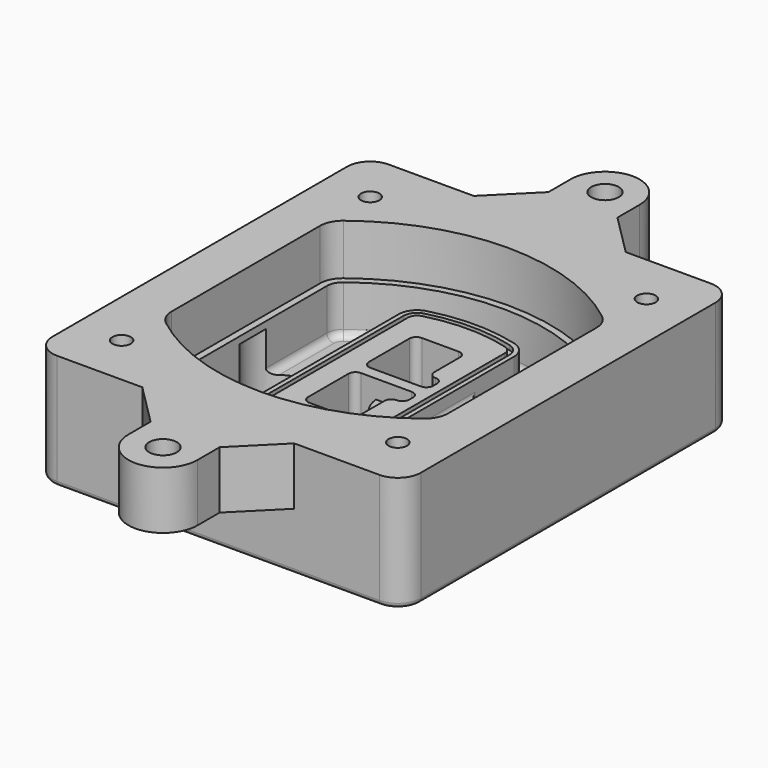
from build123d import *

# Parameters (mm, degrees)
F0_R      = 4
F1_DEPTH  = 25
F2_DEPTH  = 3
F3_DEPTH  = 18
F5_DEPTH  = 21
F6_DEPTH  = 2
F8_DEPTH  = 20
F9_DEPTH  = 16
F10_DEPTH = 25
F7_R      = 6
F7_R_2    = 4
F11_DEPTH = 6
F13_DEPTH = 9
F14_R     = 3
F15_R     = 2
F16_R     = 4
F16_R_2   = 6
F17_DEPTH = 25


with BuildPart() as f1:
    # F0 (on Top) → F1 (new body)
    with BuildSketch(Plane.XY):
        with BuildLine():
            ThreePointArc((-80, -80), (-77.0710678119, -87.0710678119), (-70, -90))
            Line((-70, -90), (70, -90))
            ThreePointArc((70, -90), (77.0710678119, -87.0710678119), (80, -80))
            Line((80, -80), (80, 80))
            ThreePointArc((80, 80), (77.0710678119, 87.0710678119), (70, 90))
            Line((70, 90), (-70, 90))
            ThreePointArc((-70, 90), (-77.0710678119, 87.0710678119), (-80, 80))
            Line((-80, 80), (-80, -80))
        make_face()
        with Locations((-60, -67.5)):
            Circle(F0_R, mode=Mode.SUBTRACT)
        with Locations((60, -67.5)):
            Circle(F0_R, mode=Mode.SUBTRACT)
        with Locations((-60, 67.5)):
            Circle(F0_R, mode=Mode.SUBTRACT)
        with BuildLine():
            ThreePointArc((-64, 40.2934422872), (-62.5820384798, 46.4328484224), (-58.6153846154, 51.3286200352))
            ThreePointArc((-58.6153846154, 51.3286200352), (0, 71.5), (58.6153846154, 51.3286200352))
            ThreePointArc((58.6153846154, 51.3286200352), (62.5820384798, 46.4328484224), (64, 40.2934422872))
            Line((64, 40.2934422872), (64, -40.2934422872))
            ThreePointArc((64, -40.2934422872), (62.5820384798, -46.4328484224), (58.6153846154, -51.3286200352))
            ThreePointArc((58.6153846154, -51.3286200352), (0, -71.5), (-58.6153846154, -51.3286200352))
            ThreePointArc((-58.6153846154, -51.3286200352), (-62.5820384798, -46.4328484224), (-64, -40.2934422872))
            Line((-64, -40.2934422872), (-64, 40.2934422872))
        make_face(mode=Mode.SUBTRACT)
        with Locations((60, 67.5)):
            Circle(F0_R, mode=Mode.SUBTRACT)
        with BuildLine():
            ThreePointArc((58.6153846154, 51.3286200352), (0, 71.5), (-58.6153846154, 51.3286200352))
            ThreePointArc((-58.6153846154, 51.3286200352), (-62.5820384798, 46.4328484224), (-64, 40.2934422872))
            Line((-64, 40.2934422872), (-64, -40.2934422872))
            ThreePointArc((-64, -40.2934422872), (-62.5820384798, -46.4328484224), (-58.6153846154, -51.3286200352))
            ThreePointArc((-58.6153846154, -51.3286200352), (0, -71.5), (58.6153846154, -51.3286200352))
            ThreePointArc((58.6153846154, -51.3286200352), (62.5820384798, -46.4328484224), (64, -40.2934422872))
            Line((64, -40.2934422872), (64, 40.2934422872))
            ThreePointArc((64, 40.2934422872), (62.5820384798, 46.4328484224), (58.6153846154, 51.3286200352))
        make_face()
        with BuildLine():
            Line((-60, -40.2934422872), (-60, 40.2934422872))
            ThreePointArc((-60, 40.2934422872), (-58.9871703427, 44.6787323838), (-56.1538461538, 48.1757121072))
            ThreePointArc((-56.1538461538, 48.1757121072), (0, 67.5), (56.1538461538, 48.1757121072))
            ThreePointArc((56.1538461538, 48.1757121072), (58.9871703427, 44.6787323838), (60, 40.2934422872))
            Line((60, 40.2934422872), (60, -40.2934422872))
            ThreePointArc((60, -40.2934422872), (58.9871703427, -44.6787323838), (56.1538461538, -48.1757121072))
            ThreePointArc((56.1538461538, -48.1757121072), (0, -67.5), (-56.1538461538, -48.1757121072))
            ThreePointArc((-56.1538461538, -48.1757121072), (-58.9871703427, -44.6787323838), (-60, -40.2934422872))
        make_face(mode=Mode.SUBTRACT)
        with BuildLine():
            ThreePointArc((-56.1538461538, 48.1757121072), (-58.9871703427, 44.6787323838), (-60, 40.2934422872))
            Line((-60, 40.2934422872), (-60, -40.2934422872))
            ThreePointArc((-60, -40.2934422872), (-58.9871703427, -44.6787323838), (-56.1538461538, -48.1757121072))
            ThreePointArc((-56.1538461538, -48.1757121072), (0, -67.5), (56.1538461538, -48.1757121072))
            ThreePointArc((56.1538461538, -48.1757121072), (58.9871703427, -44.6787323838), (60, -40.2934422872))
            Line((60, -40.2934422872), (60, 40.2934422872))
            ThreePointArc((60, 40.2934422872), (58.9871703427, 44.6787323838), (56.1538461538, 48.1757121072))
            ThreePointArc((56.1538461538, 48.1757121072), (0, 67.5), (-56.1538461538, 48.1757121072))
        make_face()
        with BuildLine():
            ThreePointArc((54.3076923077, 45.8110311612), (56.2910192399, 43.3631453548), (57, 40.2934422872))
            Line((57, 40.2934422872), (57, -40.2934422872))
            ThreePointArc((57, -40.2934422872), (56.2910192399, -43.3631453548), (54.3076923077, -45.8110311612))
            ThreePointArc((54.3076923077, -45.8110311612), (0, -64.5), (-54.3076923077, -45.8110311612))
            ThreePointArc((-54.3076923077, -45.8110311612), (-56.2910192399, -43.3631453548), (-57, -40.2934422872))
            Line((-57, -40.2934422872), (-57, 40.2934422872))
            ThreePointArc((-57, 40.2934422872), (-56.2910192399, 43.3631453548), (-54.3076923077, 45.8110311612))
            ThreePointArc((-54.3076923077, 45.8110311612), (0, 64.5), (54.3076923077, 45.8110311612))
        make_face(mode=Mode.SUBTRACT)
        with BuildLine():
            Line((57, -40.2934422872), (57, 40.2934422872))
            ThreePointArc((57, 40.2934422872), (56.2910192399, 43.3631453548), (54.3076923077, 45.8110311612))
            ThreePointArc((54.3076923077, 45.8110311612), (0, 64.5), (-54.3076923077, 45.8110311612))
            ThreePointArc((-54.3076923077, 45.8110311612), (-56.2910192399, 43.3631453548), (-57, 40.2934422872))
            Line((-57, 40.2934422872), (-57, -40.2934422872))
            ThreePointArc((-57, -40.2934422872), (-56.2910192399, -43.3631453548), (-54.3076923077, -45.8110311612))
            ThreePointArc((-54.3076923077, -45.8110311612), (0, -64.5), (54.3076923077, -45.8110311612))
            ThreePointArc((54.3076923077, -45.8110311612), (56.2910192399, -43.3631453548), (57, -40.2934422872))
        make_face()
    extrude(amount=-F1_DEPTH)

    # F0 (on Top) → F2 (join)
    with BuildSketch(Plane.XY):
        with BuildLine():
            ThreePointArc((-56.1538461538, 48.1757121072), (-58.9871703427, 44.6787323838), (-60, 40.2934422872))
            Line((-60, 40.2934422872), (-60, -40.2934422872))
            ThreePointArc((-60, -40.2934422872), (-58.9871703427, -44.6787323838), (-56.1538461538, -48.1757121072))
            ThreePointArc((-56.1538461538, -48.1757121072), (0, -67.5), (56.1538461538, -48.1757121072))
            ThreePointArc((56.1538461538, -48.1757121072), (58.9871703427, -44.6787323838), (60, -40.2934422872))
            Line((60, -40.2934422872), (60, 40.2934422872))
            ThreePointArc((60, 40.2934422872), (58.9871703427, 44.6787323838), (56.1538461538, 48.1757121072))
            ThreePointArc((56.1538461538, 48.1757121072), (0, 67.5), (-56.1538461538, 48.1757121072))
        make_face()
        with BuildLine():
            ThreePointArc((54.3076923077, 45.8110311612), (56.2910192399, 43.3631453548), (57, 40.2934422872))
            Line((57, 40.2934422872), (57, -40.2934422872))
            ThreePointArc((57, -40.2934422872), (56.2910192399, -43.3631453548), (54.3076923077, -45.8110311612))
            ThreePointArc((54.3076923077, -45.8110311612), (0, -64.5), (-54.3076923077, -45.8110311612))
            ThreePointArc((-54.3076923077, -45.8110311612), (-56.2910192399, -43.3631453548), (-57, -40.2934422872))
            Line((-57, -40.2934422872), (-57, 40.2934422872))
            ThreePointArc((-57, 40.2934422872), (-56.2910192399, 43.3631453548), (-54.3076923077, 45.8110311612))
            ThreePointArc((-54.3076923077, 45.8110311612), (0, 64.5), (54.3076923077, 45.8110311612))
        make_face(mode=Mode.SUBTRACT)
    extrude(amount=F2_DEPTH)

    # F0 (on Top) → F3 (cut)
    with BuildSketch(Plane.XY):
        with BuildLine():
            Line((57, -40.2934422872), (57, 40.2934422872))
            ThreePointArc((57, 40.2934422872), (56.2910192399, 43.3631453548), (54.3076923077, 45.8110311612))
            ThreePointArc((54.3076923077, 45.8110311612), (0, 64.5), (-54.3076923077, 45.8110311612))
            ThreePointArc((-54.3076923077, 45.8110311612), (-56.2910192399, 43.3631453548), (-57, 40.2934422872))
            Line((-57, 40.2934422872), (-57, -40.2934422872))
            ThreePointArc((-57, -40.2934422872), (-56.2910192399, -43.3631453548), (-54.3076923077, -45.8110311612))
            ThreePointArc((-54.3076923077, -45.8110311612), (0, -64.5), (54.3076923077, -45.8110311612))
            ThreePointArc((54.3076923077, -45.8110311612), (56.2910192399, -43.3631453548), (57, -40.2934422872))
        make_face()
    extrude(amount=-F3_DEPTH, mode=Mode.SUBTRACT)

    # F4 (on face) → F5 (join, through all)
    with BuildSketch(Plane.XY.offset(3)):
        with BuildLine():
            ThreePointArc((-25, -39.2465276821), (-23.3511545998, -44.1109737193), (-19.0842911877, -46.9702398883))
            ThreePointArc((-19.0842911877, -46.9702398883), (0, -49.5), (19.0842911877, -46.9702398883))
            ThreePointArc((19.0842911877, -46.9702398883), (23.3511545998, -44.1109737193), (25, -39.2465276821))
            Line((25, -39.2465276821), (25, 39.2465276821))
            ThreePointArc((25, 39.2465276821), (23.3511545998, 44.1109737193), (19.0842911877, 46.9702398883))
            ThreePointArc((19.0842911877, 46.9702398883), (0, 49.5), (-19.0842911877, 46.9702398883))
            ThreePointArc((-19.0842911877, 46.9702398883), (-23.3511545998, 44.1109737193), (-25, 39.2465276821))
            Line((-25, 39.2465276821), (-25, -39.2465276821))
        make_face()
        with BuildLine():
            ThreePointArc((18.5632183908, 45.0393118368), (21.7633659499, 42.89486221), (23, 39.2465276821))
            Line((23, 39.2465276821), (23, -39.2465276821))
            ThreePointArc((23, -39.2465276821), (21.7633659499, -42.89486221), (18.5632183908, -45.0393118368))
            ThreePointArc((18.5632183908, -45.0393118368), (0, -47.5), (-18.5632183908, -45.0393118368))
            ThreePointArc((-18.5632183908, -45.0393118368), (-21.7633659499, -42.89486221), (-23, -39.2465276821))
            Line((-23, -39.2465276821), (-23, 39.2465276821))
            ThreePointArc((-23, 39.2465276821), (-21.7633659499, 42.89486221), (-18.5632183908, 45.0393118368))
            ThreePointArc((-18.5632183908, 45.0393118368), (0, 47.5), (18.5632183908, 45.0393118368))
        make_face(mode=Mode.SUBTRACT)
        with BuildLine():
            Line((23, -39.2465276821), (23, 39.2465276821))
            ThreePointArc((23, 39.2465276821), (21.7633659499, 42.89486221), (18.5632183908, 45.0393118368))
            ThreePointArc((18.5632183908, 45.0393118368), (0, 47.5), (-18.5632183908, 45.0393118368))
            ThreePointArc((-18.5632183908, 45.0393118368), (-21.7633659499, 42.89486221), (-23, 39.2465276821))
            Line((-23, 39.2465276821), (-23, -39.2465276821))
            ThreePointArc((-23, -39.2465276821), (-21.7633659499, -42.89486221), (-18.5632183908, -45.0393118368))
            ThreePointArc((-18.5632183908, -45.0393118368), (0, -47.5), (18.5632183908, -45.0393118368))
            ThreePointArc((18.5632183908, -45.0393118368), (21.7633659499, -42.89486221), (23, -39.2465276821))
        make_face()
        with BuildLine():
            ThreePointArc((18.0421455939, 43.1083837852), (20.1755772999, 41.6787507007), (21, 39.2465276821))
            Line((21, 39.2465276821), (21, -39.2465276821))
            ThreePointArc((21, -39.2465276821), (20.1755772999, -41.6787507007), (18.0421455939, -43.1083837852))
            ThreePointArc((18.0421455939, -43.1083837852), (0, -45.5), (-18.0421455939, -43.1083837852))
            ThreePointArc((-18.0421455939, -43.1083837852), (-20.1755772999, -41.6787507007), (-21, -39.2465276821))
            Line((-21, -39.2465276821), (-21, 39.2465276821))
            ThreePointArc((-21, 39.2465276821), (-20.1755772999, 41.6787507007), (-18.0421455939, 43.1083837852))
            ThreePointArc((-18.0421455939, 43.1083837852), (0, 45.5), (18.0421455939, 43.1083837852))
        make_face(mode=Mode.SUBTRACT)
        with BuildLine():
            Line((21, -39.2465276821), (21, 39.2465276821))
            ThreePointArc((21, 39.2465276821), (20.1755772999, 41.6787507007), (18.0421455939, 43.1083837852))
            ThreePointArc((18.0421455939, 43.1083837852), (0, 45.5), (-18.0421455939, 43.1083837852))
            ThreePointArc((-18.0421455939, 43.1083837852), (-20.1755772999, 41.6787507007), (-21, 39.2465276821))
            Line((-21, 39.2465276821), (-21, -39.2465276821))
            ThreePointArc((-21, -39.2465276821), (-20.1755772999, -41.6787507007), (-18.0421455939, -43.1083837852))
            ThreePointArc((-18.0421455939, -43.1083837852), (0, -45.5), (18.0421455939, -43.1083837852))
            ThreePointArc((18.0421455939, -43.1083837852), (20.1755772999, -41.6787507007), (21, -39.2465276821))
        make_face()
        with BuildLine():
            Line((-8, -2.5), (14, -2.5))
            ThreePointArc((14, -2.5), (16.1213203436, -3.3786796564), (17, -5.5))
            Line((17, -5.5), (17, -7.5))
            ThreePointArc((17, -7.5), (16.1213203436, -9.6213203436), (14, -10.5))
            ThreePointArc((14, -10.5), (11.8786796564, -11.3786796564), (11, -13.5))
            Line((11, -13.5), (11, -27.5))
            ThreePointArc((11, -27.5), (10.1213203436, -29.6213203436), (8, -30.5))
            Line((8, -30.5), (-8, -30.5))
            ThreePointArc((-8, -30.5), (-10.1213203436, -29.6213203436), (-11, -27.5))
            Line((-11, -27.5), (-11, -5.5))
            ThreePointArc((-11, -5.5), (-10.1213203436, -3.3786796564), (-8, -2.5))
        make_face(mode=Mode.SUBTRACT)
        with BuildLine():
            ThreePointArc((-8, 2.5), (-10.1213203436, 3.3786796564), (-11, 5.5))
            Line((-11, 5.5), (-11, 27.5))
            ThreePointArc((-11, 27.5), (-10.1213203436, 29.6213203436), (-8, 30.5))
            Line((-8, 30.5), (8, 30.5))
            ThreePointArc((8, 30.5), (10.1213203436, 29.6213203436), (11, 27.5))
            Line((11, 27.5), (11, 13.5))
            ThreePointArc((11, 13.5), (11.8786796564, 11.3786796564), (14, 10.5))
            ThreePointArc((14, 10.5), (16.1213203436, 9.6213203436), (17, 7.5))
            Line((17, 7.5), (17, 5.5))
            ThreePointArc((17, 5.5), (16.1213203436, 3.3786796564), (14, 2.5))
            Line((14, 2.5), (-8, 2.5))
        make_face(mode=Mode.SUBTRACT)
    extrude(amount=-F5_DEPTH)

    # F4 (on face) → F6 (cut)
    with BuildSketch(Plane.XY.offset(3)):
        with BuildLine():
            Line((23, -39.2465276821), (23, 39.2465276821))
            ThreePointArc((23, 39.2465276821), (21.7633659499, 42.89486221), (18.5632183908, 45.0393118368))
            ThreePointArc((18.5632183908, 45.0393118368), (0, 47.5), (-18.5632183908, 45.0393118368))
            ThreePointArc((-18.5632183908, 45.0393118368), (-21.7633659499, 42.89486221), (-23, 39.2465276821))
            Line((-23, 39.2465276821), (-23, -39.2465276821))
            ThreePointArc((-23, -39.2465276821), (-21.7633659499, -42.89486221), (-18.5632183908, -45.0393118368))
            ThreePointArc((-18.5632183908, -45.0393118368), (0, -47.5), (18.5632183908, -45.0393118368))
            ThreePointArc((18.5632183908, -45.0393118368), (21.7633659499, -42.89486221), (23, -39.2465276821))
        make_face()
        with BuildLine():
            ThreePointArc((18.0421455939, 43.1083837852), (20.1755772999, 41.6787507007), (21, 39.2465276821))
            Line((21, 39.2465276821), (21, -39.2465276821))
            ThreePointArc((21, -39.2465276821), (20.1755772999, -41.6787507007), (18.0421455939, -43.1083837852))
            ThreePointArc((18.0421455939, -43.1083837852), (0, -45.5), (-18.0421455939, -43.1083837852))
            ThreePointArc((-18.0421455939, -43.1083837852), (-20.1755772999, -41.6787507007), (-21, -39.2465276821))
            Line((-21, -39.2465276821), (-21, 39.2465276821))
            ThreePointArc((-21, 39.2465276821), (-20.1755772999, 41.6787507007), (-18.0421455939, 43.1083837852))
            ThreePointArc((-18.0421455939, 43.1083837852), (0, 45.5), (18.0421455939, 43.1083837852))
        make_face(mode=Mode.SUBTRACT)
    extrude(amount=-F6_DEPTH, mode=Mode.SUBTRACT)

    # F7 (on face) → F8 (join)
    with BuildSketch(Plane(origin=(0, 0, -25), x_dir=(1, 0, 0), z_dir=(0, 0, -1))):
        with BuildLine():
            ThreePointArc((3.28842436, 0), (16.7567035675, 13.4682792075), (30.224982775, 0))
            Line((30.224982775, 0), (35.224982775, 0))
            ThreePointArc((35.224982775, 0), (16.7567035675, 18.4682792075), (-1.71157564, 0))
            Line((-1.71157564, 0), (3.28842436, 0))
        make_face()
        with BuildLine():
            Line((3.28842436, 0), (30.224982775, 0))
            ThreePointArc((30.224982775, 0), (16.7567035675, 13.4682792075), (3.28842436, 0))
        make_face()
        with BuildLine():
            ThreePointArc((3.28842436, 0), (16.7567035675, -13.4682792075), (30.224982775, 0))
            Line((30.224982775, 0), (3.28842436, 0))
        make_face()
        with BuildLine():
            Line((35.224982775, 0), (30.224982775, 0))
            ThreePointArc((30.224982775, 0), (16.7567035675, -13.4682792075), (3.28842436, 0))
            Line((3.28842436, 0), (-1.71157564, 0))
            ThreePointArc((-1.71157564, 0), (16.7567035675, -18.4682792075), (35.224982775, 0))
        make_face()
    extrude(amount=-F8_DEPTH)

    # F7 (on face) → F9 (cut)
    with BuildSketch(Plane(origin=(0, 0, -25), x_dir=(1, 0, 0), z_dir=(0, 0, -1))):
        with BuildLine():
            Line((3.28842436, 0), (30.224982775, 0))
            ThreePointArc((30.224982775, 0), (16.7567035675, 13.4682792075), (3.28842436, 0))
        make_face()
        with BuildLine():
            ThreePointArc((3.28842436, 0), (16.7567035675, -13.4682792075), (30.224982775, 0))
            Line((30.224982775, 0), (3.28842436, 0))
        make_face()
    extrude(amount=-F9_DEPTH, mode=Mode.SUBTRACT)

    # F7 (on face) → F10 (cut)
    with BuildSketch(Plane(origin=(0, 0, -25), x_dir=(1, 0, 0), z_dir=(0, 0, -1))):
        with BuildLine():
            Line((-59.0318229325, 0), (-32.0952645175, 0))
            ThreePointArc((-32.0952645175, 0), (-45.563543725, 13.4682792075), (-59.0318229325, 0))
        make_face()
        with BuildLine():
            ThreePointArc((-59.0318229325, 0), (-45.563543725, -13.4682792075), (-32.0952645175, 0))
            Line((-32.0952645175, 0), (-59.0318229325, 0))
        make_face()
    extrude(amount=-F10_DEPTH, mode=Mode.SUBTRACT)

    # F7 (on face) → F11 (cut)
    with BuildSketch(Plane(origin=(0, 0, -25), x_dir=(1, 0, 0), z_dir=(0, 0, -1))):
        with Locations((60, -67.5)):
            Circle(F7_R)
        with Locations((60, -67.5)):
            Circle(F7_R_2, mode=Mode.SUBTRACT)
        with Locations((60, -67.5)):
            Circle(F7_R)
        with Locations((60, -67.5)):
            Circle(F7_R_2, mode=Mode.SUBTRACT)
        with Locations((-60, -67.5)):
            Circle(F7_R)
        with Locations((-60, -67.5)):
            Circle(F7_R_2, mode=Mode.SUBTRACT)
        with Locations((-60, -67.5)):
            Circle(F7_R)
        with Locations((-60, -67.5)):
            Circle(F7_R_2, mode=Mode.SUBTRACT)
        with Locations((-60, 67.5)):
            Circle(F7_R)
        with Locations((-60, 67.5)):
            Circle(F7_R_2, mode=Mode.SUBTRACT)
        with Locations((-60, 67.5)):
            Circle(F7_R)
        with Locations((-60, 67.5)):
            Circle(F7_R_2, mode=Mode.SUBTRACT)
        with Locations((60, 67.5)):
            Circle(F7_R)
        with Locations((60, 67.5)):
            Circle(F7_R_2, mode=Mode.SUBTRACT)
        with Locations((60, 67.5)):
            Circle(F7_R)
        with Locations((60, 67.5)):
            Circle(F7_R_2, mode=Mode.SUBTRACT)
    extrude(amount=-F11_DEPTH, mode=Mode.SUBTRACT)

    # F12 (on face) → F13 (cut, through all)
    with BuildSketch(Plane(origin=(0, 0, -9), x_dir=(1, 0, 0), z_dir=(0, 0, -1))):
        with BuildLine():
            Line((11, 13.5), (11, 17.5481537753))
            ThreePointArc((11, 17.5481537753), (2.5696536419, 11.8239143813), (-1.5415842455, 2.5))
            Line((-1.5415842455, 2.5), (3.5224848595, 2.5))
            ThreePointArc((3.5224848595, 2.5), (6.1857188154, 8.3455872281), (11.2536447004, 12.2927168648))
            ThreePointArc((11.2536447004, 12.2927168648), (11.0640958889, 12.8831798879), (11, 13.5))
        make_face()
        with BuildLine():
            ThreePointArc((11.2536447004, -12.2927168648), (6.1857188154, -8.3455872281), (3.5224848595, -2.5))
            Line((3.5224848595, -2.5), (-1.5415842455, -2.5))
            ThreePointArc((-1.5415842455, -2.5), (2.5696536419, -11.8239143813), (11, -17.5481537753))
            Line((11, -17.5481537753), (11, -13.5))
            ThreePointArc((11, -13.5), (11.0640958889, -12.8831798879), (11.2536447004, -12.2927168648))
        make_face()
        with BuildLine():
            ThreePointArc((11.2536447004, 12.2927168648), (6.1857188154, 8.3455872281), (3.5224848595, 2.5))
            Line((3.5224848595, 2.5), (14, 2.5))
            ThreePointArc((14, 2.5), (16.1213203436, 3.3786796564), (17, 5.5))
            Line((17, 5.5), (17, 7.5))
            ThreePointArc((17, 7.5), (16.1213203436, 9.6213203436), (14, 10.5))
            ThreePointArc((14, 10.5), (12.3601599782, 10.9878446101), (11.2536447004, 12.2927168648))
        make_face()
        with BuildLine():
            Line((14, -2.5), (3.5224848595, -2.5))
            ThreePointArc((3.5224848595, -2.5), (6.1857188154, -8.3455872281), (11.2536447004, -12.2927168648))
            ThreePointArc((11.2536447004, -12.2927168648), (12.3601599782, -10.9878446101), (14, -10.5))
            ThreePointArc((14, -10.5), (16.1213203436, -9.6213203436), (17, -7.5))
            Line((17, -7.5), (17, -5.5))
            ThreePointArc((17, -5.5), (16.1213203436, -3.3786796564), (14, -2.5))
        make_face()
    extrude(amount=F13_DEPTH, mode=Mode.SUBTRACT)

    # F14
    f14_edges = [f1.edges().sort_by_distance(p)[0] for p in [
        (-57, -23.703476, -18),
        (-57, 23.703476, -18),
        (25, 0, -5),
        (25, 16.526506, -11.5),
        (25, -16.526506, -11.5),
        (25, -27.886517, -18),
        (35.224983, 0, -18),
    ]]
    fillet(f14_edges, radius=F14_R)

    # F15
    f15_edges = [f1.edges().sort_by_distance(p)[0] for p in [
        (0, -90, -25),
    ]]
    fillet(f15_edges, radius=F15_R)

    # F16 (on face) → F17 (join)
    with BuildSketch(Plane.XY):
        with BuildLine():
            Line((-33, 90), (-70, 90))
            ThreePointArc((-70, 90), (-77.0710678119, 87.0710678119), (-80, 80))
            Line((-80, 80), (-80, -80))
            ThreePointArc((-80, -80), (-77.0710678119, -87.0710678119), (-70, -90))
            Line((-70, -90), (-33, -90))
            Line((-33, -90), (33, -90))
            Line((33, -90), (70, -90))
            ThreePointArc((70, -90), (77.0710678119, -87.0710678119), (80, -80))
            Line((80, -80), (80, 80))
            ThreePointArc((80, 80), (77.0710678119, 87.0710678119), (70, 90))
            Line((70, 90), (33, 90))
            Line((33, 90), (-33, 90))
        make_face()
        with Locations((-60, -67.5)):
            Circle(F16_R, mode=Mode.SUBTRACT)
        with Locations((60, -67.5)):
            Circle(F16_R, mode=Mode.SUBTRACT)
        with Locations((-60, 67.5)):
            Circle(F16_R, mode=Mode.SUBTRACT)
        with BuildLine():
            Line((-60, -40.2934422872), (-60, 40.2934422872))
            ThreePointArc((-60, 40.2934422872), (-58.9871703427, 44.6787323838), (-56.1538461538, 48.1757121072))
            ThreePointArc((-56.1538461538, 48.1757121072), (0, 67.5), (56.1538461538, 48.1757121072))
            ThreePointArc((56.1538461538, 48.1757121072), (58.9871703427, 44.6787323838), (60, 40.2934422872))
            Line((60, 40.2934422872), (60, -40.2934422872))
            ThreePointArc((60, -40.2934422872), (58.9871703427, -44.6787323838), (56.1538461538, -48.1757121072))
            ThreePointArc((56.1538461538, -48.1757121072), (0, -67.5), (-56.1538461538, -48.1757121072))
            ThreePointArc((-56.1538461538, -48.1757121072), (-58.9871703427, -44.6787323838), (-60, -40.2934422872))
        make_face(mode=Mode.SUBTRACT)
        with Locations((60, 67.5)):
            Circle(F16_R, mode=Mode.SUBTRACT)
        with BuildLine():
            Line((-15, 108), (-33, 90))
            Line((-33, 90), (33, 90))
            Line((33, 90), (15, 108))
            Line((15, 108), (15, 120))
            ThreePointArc((15, 120), (0, 135), (-15, 120))
            Line((-15, 120), (-15, 108))
        make_face()
        with Locations((0, 120)):
            Circle(F16_R_2, mode=Mode.SUBTRACT)
        with BuildLine():
            Line((33, -90), (-33, -90))
            Line((-33, -90), (-15, -108))
            Line((-15, -108), (-15, -120))
            ThreePointArc((-15, -120), (0, -135), (15, -120))
            Line((15, -120), (15, -108))
            Line((15, -108), (33, -90))
        make_face()
        with Locations((0, -120)):
            Circle(F16_R_2, mode=Mode.SUBTRACT)
    extrude(amount=F17_DEPTH)


solid = f1.part
